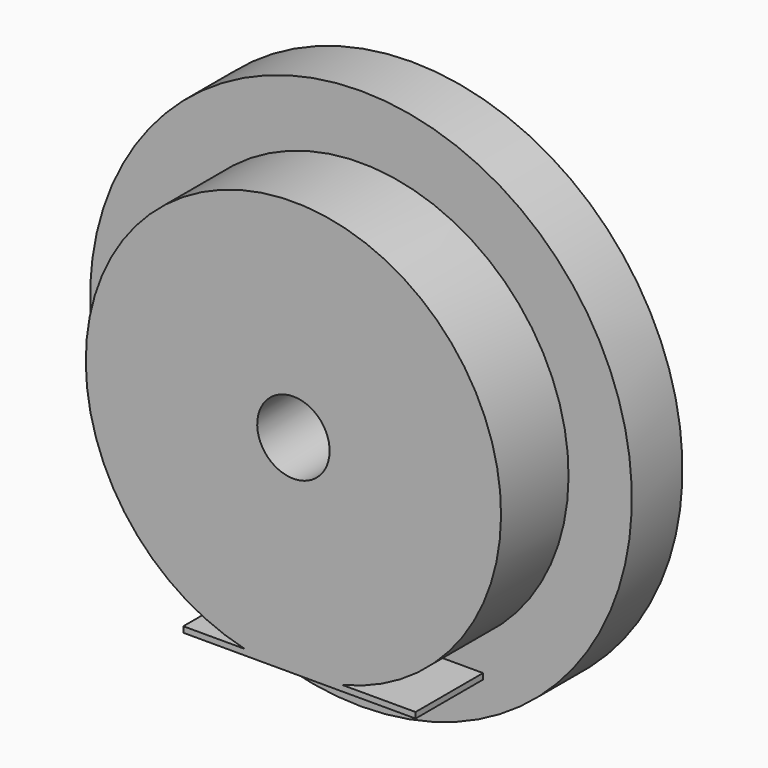
from build123d import *

# Parameters (mm, degrees)
F3_DEPTH = 10


with BuildPart() as f1:
    # F0 (on Right) → F1 (revolve)
    with BuildSketch(Plane.YZ):
        Polygon((-14, 3.431979), (0, 3.431979), (0, 25.684212), (-6, 25.684212), (-6, 19.684212), (-14, 19.684212), align=None)
    revolve(axis=Axis((0, -7, 0), (0, 1, 0)))

    # F2 (on face) → F3 (join)
    with BuildSketch(Plane.XZ.offset(14)):
        Polygon((-10.437276, -19.684212), (0, -19.684212), (11.577706, -19.684212), (11.577706, -19.137302), (-10.437276, -19.137302), align=None)
    extrude(amount=-F3_DEPTH)


solid = f1.part
